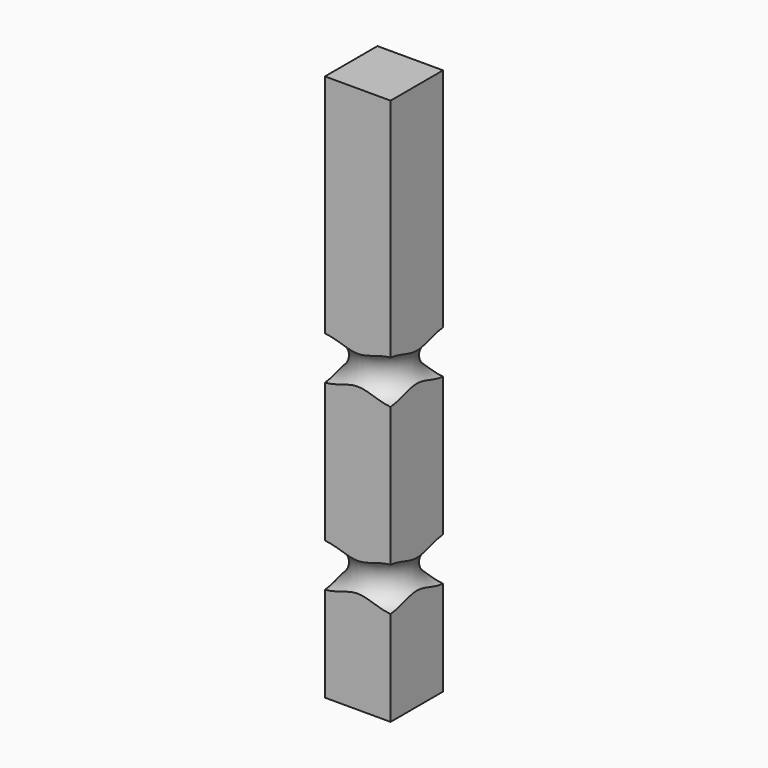
from build123d import *

# Parameters (mm, degrees)
TORUS005_R   = 20
TORUS001_R   = 20
SKETCH001_W  = 60
SKETCH001_H  = 60
PAD001_DEPTH = 500


with BuildPart() as torus005:
    # Torus005 → Torus005 (revolve)
    with BuildSketch(Plane(origin=(30, 30, 273.333333), x_dir=(1, 0, 0), z_dir=(0, -1, 0))):
        with Locations((45, 0)):
            Circle(TORUS005_R)
    revolve(axis=Axis((30, 30, 273.333333), (0, 0, 1)))


with BuildPart() as torus001:
    # Torus001 → Torus001 (revolve)
    with BuildSketch(Plane(origin=(30, 30, 106.666667), x_dir=(1, 0, 0), z_dir=(0, -1, 0))):
        with Locations((45, 0)):
            Circle(TORUS001_R)
    revolve(axis=Axis((30, 30, 106.666667), (0, 0, 1)))


with BuildPart() as cut001:
    # Sketch001 → Pad001 (new body)
    with BuildSketch(Plane.XY):
        with Locations((30, 30)):
            Rectangle(SKETCH001_W, SKETCH001_H)
    extrude(amount=PAD001_DEPTH)

    # Cut: cut Torus001
    add(torus001.part, mode=Mode.SUBTRACT)

    # Cut001: cut Torus005
    add(torus005.part, mode=Mode.SUBTRACT)


solid = cut001.part
